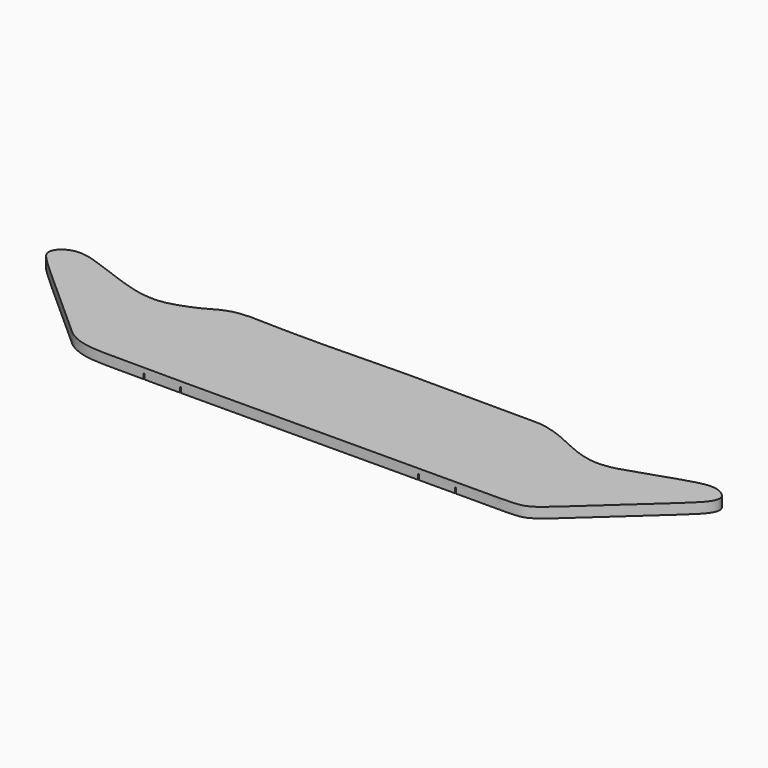
from build123d import *

# Parameters (mm, degrees)
PAD004_DEPTH    = 0.3
SKETCH018_W     = 6.9845
SKETCH018_H     = 0.512647
SKETCH018_W_2   = 6.959938
SKETCH018_H_2   = 0.488085
SKETCH018_W_3   = 6.952119
SKETCH018_H_3   = 0.439587
SKETCH018_W_4   = 6.927557
SKETCH018_H_4   = 0.415025
SKETCH018_W_5   = 6.969364
SKETCH018_H_5   = 0.486019
POCKET013_DEPTH = 0.15
POCKET014_DEPTH = 0.15


with BuildPart() as part:
    # Sketch017 (on Face1 of Binder004) → Pad004 (new body)
    with BuildSketch(Plane(origin=(0, 0, -10.7), x_dir=(1, 0, 0), z_dir=(0, 0, -1))):
        with BuildLine():
            add(Edge.make_bspline(
                [(4.111863, 12.515676), (4.579219, 12.860064), (5.288557, 12.811722), (7.090823, 12.839484), (12.51946, 12.809375), (14.848581, 12.795897), (16.456595, 12.787731), (17.384983, 12.80417), (17.644705, 12.638002), (17.74663, 12.613811), (18.501772, 11.918064), (19.19557, 11.288377), (19.957458, 10.59264), (20.344689, 10.239263), (20.831514, 9.754692), (20.647381, 9.424284), (20.24686, 9.288253), (19.721511, 9.393176), (18.257324, 9.901452), (17.612887, 10.102665), (16.780019, 9.999396), (15.614692, 9.338784), (14.997028, 9.348033), (13.93276, 9.350972), (10.862935, 9.299873), (8.229073, 9.45441), (6.304315, 9.285111), (5.736302, 9.695597), (4.86375, 10.052497), (4.405333, 10.05078), (3.899753, 10.013347), (2.560654, 9.518015), (1.583152, 9.136962), (0.921049, 9.776741), (1.541743, 10.202644), (4.111863, 12.515676)],
                knots=[0, 0, 0, 0, 0.05, 0.067892, 0.094266, 0.1, 0.108225, 0.117525, 0.15, 0.2, 0.204467, 0.220808, 0.243622, 0.25, 0.254136, 0.3, 0.35, 0.4, 0.45, 0.5, 0.55, 0.592244, 0.597959, 0.6, 0.612027, 0.65, 0.669779, 0.688511, 0.7, 0.75, 0.8, 0.85, 0.9, 0.95, 1, 1, 1, 1], degree=3, weights=[1, 1, 1, 1, 1, 1, 1, 1, 1, 1, 1, 1, 1, 1, 1, 1, 1, 1, 1, 1, 1, 1, 1, 1, 1, 1, 1, 1, 1, 1, 1, 1.227557, 1, 1, 1, 1]))
        make_face()
    extrude(amount=PAD004_DEPTH)

    # Sketch018 (on Face3 of Pad004) → Pocket013 (cut)
    with BuildSketch(Plane(origin=(0, 0, -11), x_dir=(1, 0, 0), z_dir=(0, 0, -1))):
        with Locations((10.983849, 10.715044)):
            Rectangle(SKETCH018_W, SKETCH018_H)
        with Locations((10.983849, 10.715045)):
            Rectangle(SKETCH018_W_2, SKETCH018_H_2, mode=Mode.SUBTRACT)
        with Locations((10.971776, 11.357344)):
            Rectangle(SKETCH018_W_3, SKETCH018_H_3)
        with Locations((10.971776, 11.357344)):
            Rectangle(SKETCH018_W_4, SKETCH018_H_4, mode=Mode.SUBTRACT)
        with BuildLine():
            Line((14.459983, 10.304996), (14.459983, 9.818977))
            ThreePointArc((14.459983, 9.818977), (14.456386, 9.810293), (14.447702, 9.806696))
            Line((14.447702, 9.806696), (7.478338, 9.806696))
            ThreePointArc((7.478338, 9.806696), (7.469654, 9.810293), (7.466057, 9.818977))
            Line((7.466057, 9.818977), (7.466057, 10.304996))
            ThreePointArc((7.466057, 10.304996), (7.469654, 10.31368), (7.478338, 10.317277))
            Line((7.478338, 10.317277), (14.447702, 10.317277))
            ThreePointArc((14.447702, 10.317277), (14.456386, 10.31368), (14.459983, 10.304996))
        make_face()
        with Locations((10.96302, 10.061986)):
            Rectangle(SKETCH018_W_5, SKETCH018_H_5, mode=Mode.SUBTRACT)
        with BuildLine():
            Line((14.446559, 12.839616), (14.446559, 11.748901))
            ThreePointArc((14.446559, 11.748901), (14.442962, 11.740217), (14.434278, 11.73662))
            Line((14.434278, 11.73662), (7.5124, 11.73662))
            ThreePointArc((7.5124, 11.73662), (7.503716, 11.740217), (7.500119, 11.748901))
            Line((7.500119, 11.748901), (7.500119, 12.836756))
            ThreePointArc((7.500119, 12.836756), (7.5124, 12.849037), (7.524681, 12.836756))
            Line((7.524681, 11.761182), (7.524681, 12.836756))
            Line((14.421997, 11.761182), (7.524681, 11.761182))
            Line((14.421997, 12.839616), (14.421997, 11.761182))
            ThreePointArc((14.421997, 12.839616), (14.434278, 12.851897), (14.446559, 12.839616))
        make_face()
        with BuildLine():
            Line((7.474811, 9.320251), (7.474811, 9.6376))
            ThreePointArc((7.474811, 9.6376), (7.478408, 9.646284), (7.487092, 9.649881))
            Line((7.487092, 9.649881), (14.477132, 9.649881))
            ThreePointArc((14.477132, 9.649881), (14.485816, 9.646284), (14.489413, 9.6376))
            Line((14.489413, 9.6376), (14.489413, 9.310106))
            ThreePointArc((14.489413, 9.310106), (14.477132, 9.297825), (14.464851, 9.310106))
            Line((14.464851, 9.625319), (14.464851, 9.310106))
            Line((7.499373, 9.625319), (14.464851, 9.625319))
            Line((7.499373, 9.320251), (7.499373, 9.625319))
            ThreePointArc((7.499373, 9.320251), (7.487092, 9.30797), (7.474811, 9.320251))
        make_face()
        with BuildLine():
            ThreePointArc((17.045079, 9.957195), (17.047364, 9.93543), (17.025599, 9.933145))
            Line((17.025599, 9.933145), (16.520377, 10.342345))
            Line((16.520377, 10.342345), (15.509934, 11.160746))
            ThreePointArc((15.509934, 11.160746), (15.507649, 11.182511), (15.529414, 11.184796))
            Line((16.539857, 10.366396), (15.529414, 11.184796))
            Line((17.045079, 9.957195), (16.539857, 10.366396))
        make_face()
        with BuildLine():
            ThreePointArc((6.441758, 11.168084), (6.463515, 11.165727), (6.461158, 11.14397))
            Line((6.461158, 11.14397), (5.955674, 10.737313))
            Line((5.955674, 10.737313), (4.944706, 9.924001))
            ThreePointArc((4.944706, 9.924001), (4.922949, 9.926358), (4.925306, 9.948115))
            Line((5.936274, 10.761428), (4.925306, 9.948115))
            Line((6.441758, 11.168084), (5.936274, 10.761428))
        make_face()
    extrude(amount=-POCKET013_DEPTH, mode=Mode.SUBTRACT)

    # Sketch019 (on Face3 of Pocket013) → Pocket014 (cut)
    with BuildSketch(Plane(origin=(0, 0, -11), x_dir=(1, 0, 0), z_dir=(0, 0, -1))):
        with BuildLine():
            ThreePointArc((6.437212, 12.857143), (6.45108, 12.871011), (6.464948, 12.857143))
            Line((6.464948, 12.857143), (6.464948, 11.671211))
            Line((6.464948, 11.671211), (6.464948, 9.299348))
            ThreePointArc((6.464948, 9.299348), (6.45108, 9.28548), (6.437212, 9.299348))
            Line((6.437212, 11.671211), (6.437212, 9.299348))
            Line((6.437212, 12.857143), (6.437212, 11.671211))
        make_face()
        with BuildLine():
            ThreePointArc((15.494711, 12.855238), (15.508579, 12.869106), (15.522447, 12.855238))
            Line((15.522447, 12.855238), (15.522447, 11.671051))
            Line((15.522447, 11.671051), (15.522447, 9.302676))
            ThreePointArc((15.522447, 9.302676), (15.508579, 9.288808), (15.494711, 9.302676))
            Line((15.494711, 11.671051), (15.494711, 9.302676))
            Line((15.494711, 12.855238), (15.494711, 11.671051))
        make_face()
    extrude(amount=-POCKET014_DEPTH, mode=Mode.SUBTRACT)


solid = part.part
